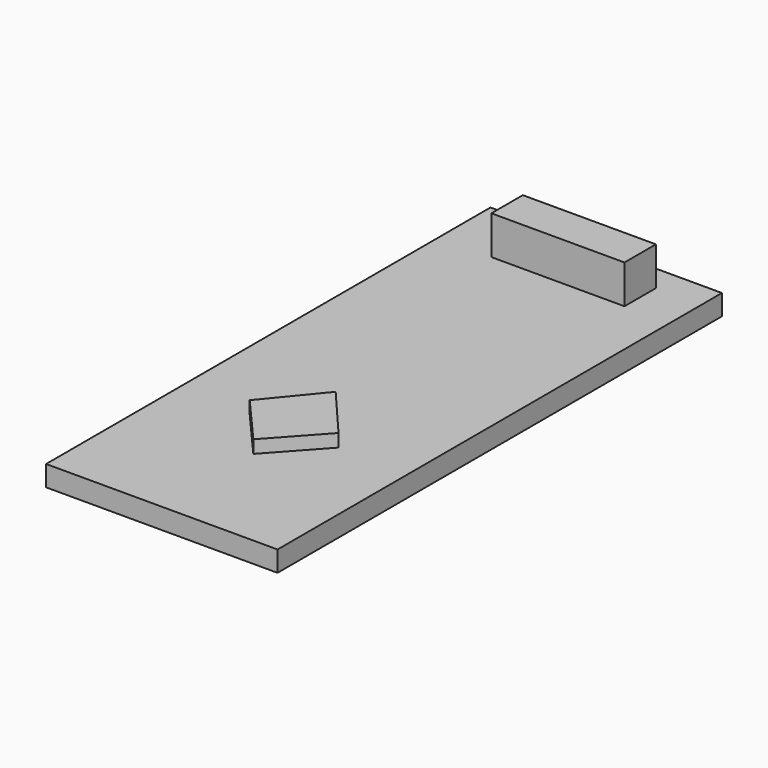
from build123d import *

# Parameters (mm, degrees)
F0_W     = 18
F0_H     = 43.2
F1_DEPTH = 1.6
F3_DEPTH = 1
F2_W     = 10.35191
F2_H     = 3.05466
F4_DEPTH = 3


with BuildPart() as f1:
    # F0 (on Top) → F1 (new body)
    with BuildSketch(Plane.XY):
        with Locations((0, -1.040964)):
            Rectangle(F0_W, F0_H)
    extrude(amount=F1_DEPTH)

    # F2 (on face) → F3 (join)
    with BuildSketch(Plane.XY.offset(1.6)):
        Polygon((-3.383941, -9.864242), (0, -13.744771), (3.521491, -9.864242), (0, -5.74118), align=None)
    extrude(amount=F3_DEPTH)

    # F2 (on face) → F4 (join)
    with BuildSketch(Plane.XY.offset(1.6)):
        with Locations((0.296766, 17.023522)):
            Rectangle(F2_W, F2_H)
    extrude(amount=F4_DEPTH)


solid = f1.part
